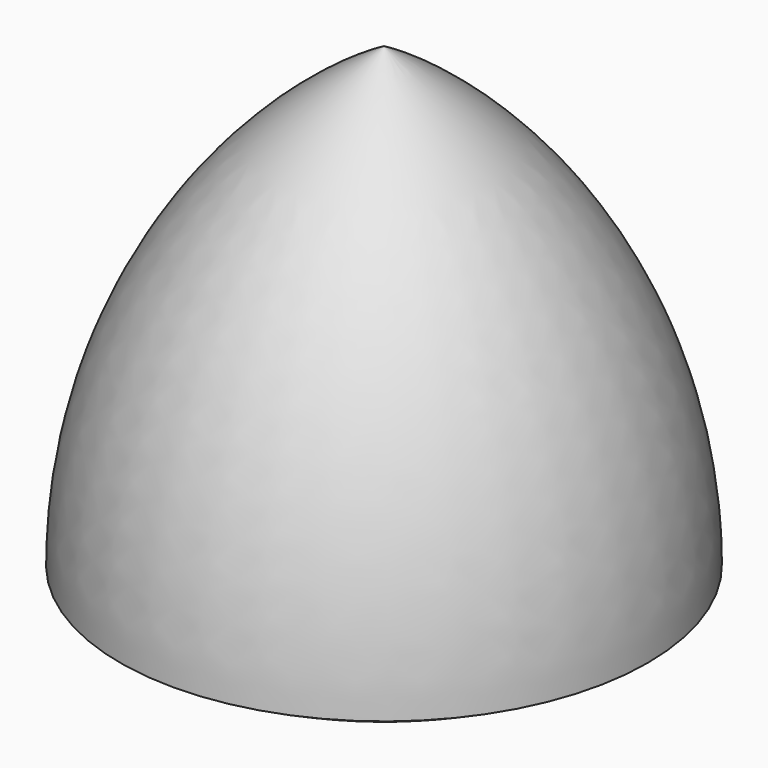
from build123d import *


with BuildPart() as f1:
    # F0 (on Front) → F1 (revolve)
    with BuildSketch(Plane.XZ):
        with BuildLine():
            Line((-29.9593082226, 9.9101164527), (-4.5593082226, 53.904206965))
            ThreePointArc((-4.5593082226, 53.904206965), (-23.1533987348, 35.3101164527), (-29.9593082226, 9.9101164527))
        make_face()
        Polygon((-4.5593082226, 9.9101164527), (-4.5593082226, 53.904206965), (-29.9593082226, 9.9101164527), align=None)
        with BuildLine():
            Line((-4.5593082226, 9.9101164527), (-29.9593082226, 9.9101164527))
            ThreePointArc((-29.9593082226, 9.9101164527), (-17.7073157138, 4.8351749895), (-4.5593082226, 3.104206965))
            Line((-4.5593082226, 3.104206965), (-4.5593082226, 9.9101164527))
        make_face()
    revolve(axis=Axis((-4.5593082226, 0, 31.9071617088), (0, 0, -1)))


solid = f1.part
